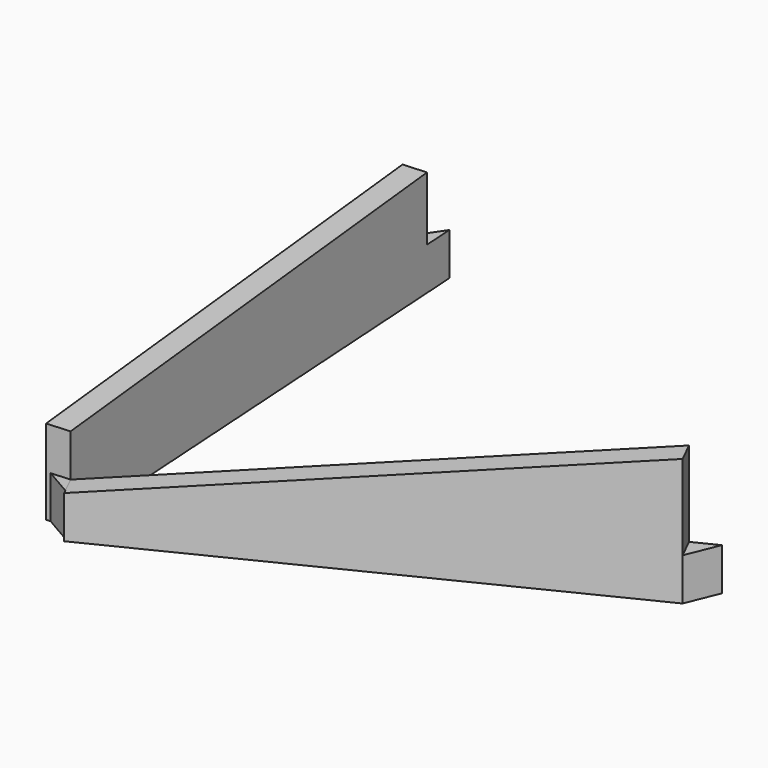
from build123d import *

# Parameters (mm, degrees)
PAD001_DEPTH    = 4
PAD_DEPTH       = 12
POCKET_DEPTH    = 5
PAD002_DEPTH    = 10
POCKET001_DEPTH = 5


with BuildPart() as part:
    # Sketch → Pad001 (new body)
    with BuildSketch(Plane.XY):
        Polygon((19.1896980533, 33.2375320102), (63.1687295291, 55.0322820836), (61.9231008029, 51.9596510451), (20.4096030829, 31.3867489797), (16.9769204172, 33.3686092408), (14.0922142472, 78.735746785), (16.1054778399, 81.7423829), align=None)
    extrude(amount=PAD001_DEPTH)

    # Sketch001 → Pad (join)
    with BuildSketch(Plane.XY):
        Polygon((19.1896980533, 33.2375320102), (60.9462208875, 53.930870371), (61.9231008029, 51.9596510451), (20.1665779687, 31.2663126843), align=None)
    extrude(amount=PAD_DEPTH)

    # Sketch003 (on Face10 of Pad) → Pocket (cut)
    with BuildSketch(Plane(origin=(-9.4403000379, 19.049323856, 0), x_dir=(-0.8960087845, -0.4440363252, 0), z_dir=(-0.4440363252, 0.8960087845, 0))):
        Polygon((-78.5556147914, 12), (-31.9528096, 4), (-31.9528096, 12), align=None)
    extrude(amount=-POCKET_DEPTH, mode=Mode.SUBTRACT)

    # Sketch004 → Pad002 (join)
    with BuildSketch(Plane.XY):
        Polygon((16.2877802175, 78.8753536248), (19.1896980533, 33.2375320102), (16.9941320829, 33.0979251705), (14.0922142472, 78.735746785), align=None)
    extrude(amount=PAD002_DEPTH)

    # Sketch005 (on Face2 of Pad002) → Pocket001 (cut)
    with BuildSketch(Plane(origin=(19.0217824328, 1.209515436, 0), x_dir=(0.0634576544, -0.997984532, 0), z_dir=(-0.997984532, -0.0634576544, 0))):
        Polygon((-31.9528096, 10), (-31.9528096, 8), (-77.6827985443, 10), align=None)
    extrude(amount=-POCKET001_DEPTH, mode=Mode.SUBTRACT)


solid = part.part
